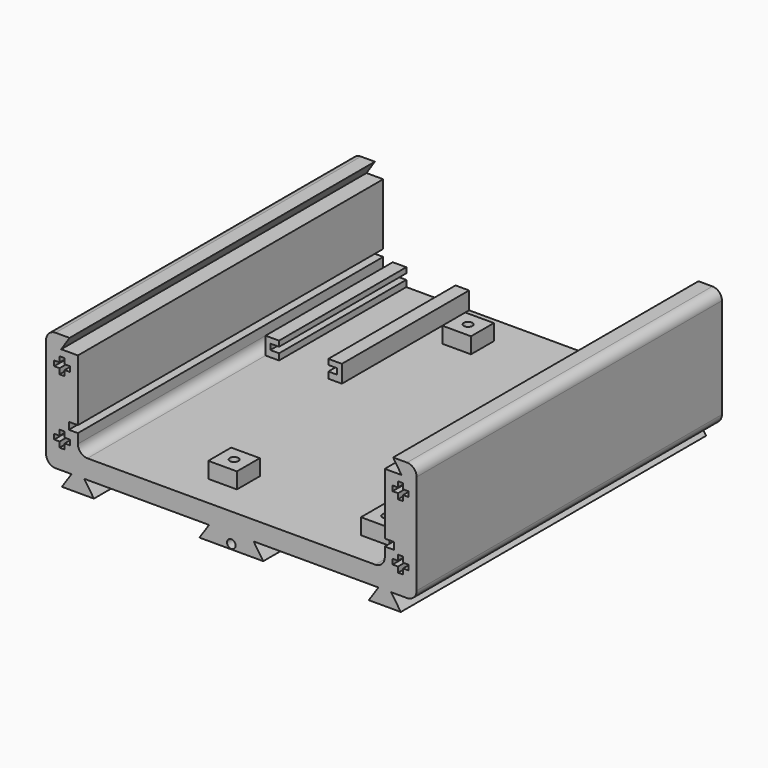
from build123d import *

# Parameters (mm, degrees)
F1_DEPTH = 120
F3_D     = 2.7
F3_DEPTH = 12
F3_TIP   = 0.8111618357
F4_W     = 9
F4_H     = 9
F5_DEPTH = 5
F7_D     = 2.7
F7_DEPTH = 5
F7_TIP   = 0.8111618357
F9_DEPTH = 50


with BuildPart() as f1:
    # F0 (on Front) → F1 (new body)
    with BuildSketch(Plane.XZ):
        with BuildLine():
            Line((-10.0352883258, -17.0069661875), (0, -17.0069661875))
            Line((0, -17.0069661875), (10.0352883258, -17.0069661875))
            Line((10.0352883258, -17.0069661875), (7, -12.5069661875))
            Line((7, -12.5069661875), (46.25, -12.5069661875))
            Line((46.25, -12.5069661875), (43.2147116742, -17.0069661875))
            Line((43.2147116742, -17.0069661875), (53.2852883258, -17.0069661875))
            Line((53.2852883258, -17.0069661875), (50.25, -12.5069661875))
            Line((50.25, -12.5069661875), (55.25, -12.5069661875))
            ThreePointArc((55.25, -12.5069661875), (57.3713203436, -11.6282865311), (58.25, -9.5069661875))
            Line((58.25, -9.5069661875), (58.25, 21.9930338125))
            ThreePointArc((58.25, 21.9930338125), (57.3713203436, 24.114354156), (55.25, 24.9930338125))
            Line((55.25, 24.9930338125), (50.8726710718, 24.9930338125))
            Line((50.8726710718, 24.9930338125), (53.5, 20.9930338125))
            Line((53.5, 20.9930338125), (48.25, 20.9930338125))
            Line((48.25, 20.9930338125), (48.25, 1.6930338125))
            Line((48.25, 1.6930338125), (51.1, 1.6930338125))
            Line((51.1, 1.6930338125), (51.1, -0.5069661875))
            Line((51.1, -0.5069661875), (48.25, -0.5069661875))
            Line((48.25, -0.5069661875), (48.25, -3.5069661875))
            ThreePointArc((48.25, -3.5069661875), (47.3713203436, -5.6282865311), (45.25, -6.5069661875))
            Line((45.25, -6.5069661875), (0, -6.5069661875))
            Line((0, -6.5069661875), (-45.25, -6.5069661875))
            ThreePointArc((-45.25, -6.5069661875), (-47.3713203436, -5.6282865311), (-48.25, -3.5069661875))
            Line((-48.25, -3.5069661875), (-48.25, -0.5069661875))
            Line((-48.25, -0.5069661875), (-51.1, -0.5069661875))
            Line((-51.1, -0.5069661875), (-51.1, 1.6930338125))
            Line((-51.1, 1.6930338125), (-48.25, 1.6930338125))
            Line((-48.25, 1.6930338125), (-48.25, 20.9930338125))
            Line((-48.25, 20.9930338125), (-53.5, 20.9930338125))
            Line((-53.5, 20.9930338125), (-50.8726710718, 24.9930338125))
            Line((-50.8726710718, 24.9930338125), (-55.25, 24.9930338125))
            ThreePointArc((-55.25, 24.9930338125), (-57.3713203436, 24.114354156), (-58.25, 21.9930338125))
            Line((-58.25, 21.9930338125), (-58.25, -9.5069661875))
            ThreePointArc((-58.25, -9.5069661875), (-57.3713203436, -11.6282865311), (-55.25, -12.5069661875))
            Line((-55.25, -12.5069661875), (-50.25, -12.5069661875))
            Line((-50.25, -12.5069661875), (-53.2852883258, -17.0069661875))
            Line((-53.2852883258, -17.0069661875), (-43.2147116742, -17.0069661875))
            Line((-43.2147116742, -17.0069661875), (-46.25, -12.5069661875))
            Line((-46.25, -12.5069661875), (-7, -12.5069661875))
            Line((-7, -12.5069661875), (-10.0352883258, -17.0069661875))
        make_face()
        Polygon((-54, -3.1069661875), (-54, -1.4069661875), (-52.4, -1.4069661875), (-52.4, -3.1069661875), (-50.7, -3.1069661875), (-50.7, -4.7069661875), (-52.4, -4.7069661875), (-52.4, -6.4069661875), (-54, -6.4069661875), (-54, -4.7069661875), (-55.7, -4.7069661875), (-55.7, -3.1069661875), align=None, mode=Mode.SUBTRACT)
        Polygon((52.4, -1.4069661875), (54, -1.4069661875), (54, -3.1069661875), (55.7, -3.1069661875), (55.7, -4.7069661875), (54, -4.7069661875), (54, -6.4069661875), (52.4, -6.4069661875), (52.4, -4.7069661875), (50.7, -4.7069661875), (50.7, -3.1069661875), (52.4, -3.1069661875), align=None, mode=Mode.SUBTRACT)
        Polygon((-55.7, 15.5930338125), (-55.7, 17.1930338125), (-54, 17.1930338125), (-54, 18.8930338125), (-52.4, 18.8930338125), (-52.4, 17.1930338125), (-50.7, 17.1930338125), (-50.7, 15.5930338125), (-52.4, 15.5930338125), (-52.4, 13.8930338125), (-54, 13.8930338125), (-54, 15.5930338125), align=None, mode=Mode.SUBTRACT)
        Polygon((54, 18.8930338125), (54, 17.1930338125), (55.7, 17.1930338125), (55.7, 15.5930338125), (54, 15.5930338125), (54, 13.8930338125), (52.4, 13.8930338125), (52.4, 15.5930338125), (50.7, 15.5930338125), (50.7, 17.1930338125), (52.4, 17.1930338125), (52.4, 18.8930338125), align=None, mode=Mode.SUBTRACT)
    extrude(amount=-F1_DEPTH)

    # F3
    with Locations(Plane.XZ):
        with Locations((0, -15.5069661875)):
            Hole(F3_D / 2, depth=F3_DEPTH)
            with Locations((0, 0, -(F3_DEPTH + F3_TIP / 2))):  # 118° drill point
                Cone(0, F3_D / 2, F3_TIP, mode=Mode.SUBTRACT)

    # F4 (on face) → F5 (join)
    with BuildSketch(Plane.XY.offset(-6.5069661875)):
        with Locations((-10.75, 14.5)):
            Rectangle(F4_W, F4_H)
        with Locations((-10.75, 106.5)):
            Rectangle(F4_W, F4_H)
        with Locations((37.25, 14.5)):
            Rectangle(F4_W, F4_H)
        with Locations((37.25, 106.5)):
            Rectangle(F4_W, F4_H)
    extrude(amount=F5_DEPTH)

    # F7
    with Locations(Plane.XY.offset(-1.5069661875)):
        with Locations((-10.75, 106.5), (37.25, 106.5), (-10.75, 14.5), (37.25, 14.5)):
            Hole(F7_D / 2, depth=F7_DEPTH)
            with Locations((0, 0, -(F7_DEPTH + F7_TIP / 2))):  # 118° drill point
                Cone(0, F7_D / 2, F7_TIP, mode=Mode.SUBTRACT)

    # F8 (on face) → F9 (join)
    with BuildSketch(Plane(origin=(0, 120, 0), x_dir=(-1, 0, 0), z_dir=(0, 1, 0))):
        Polygon((21.25, -1.0069661875), (21.25, -6.5069661875), (25.5, -6.5069661875), (25.5, -4.5069661875), (22.75, -4.5069661875), (22.75, -2.7069661875), (25.5, -2.7069661875), (25.5, -1.0069661875), align=None)
        Polygon((41, -4.5069661875), (41, -6.5069661875), (45.25, -6.5069661875), (45.25, -1.0069661875), (41, -1.0069661875), (41, -2.7069661875), (43.75, -2.7069661875), (43.75, -4.5069661875), align=None)
    extrude(amount=-F9_DEPTH)


solid = f1.part
